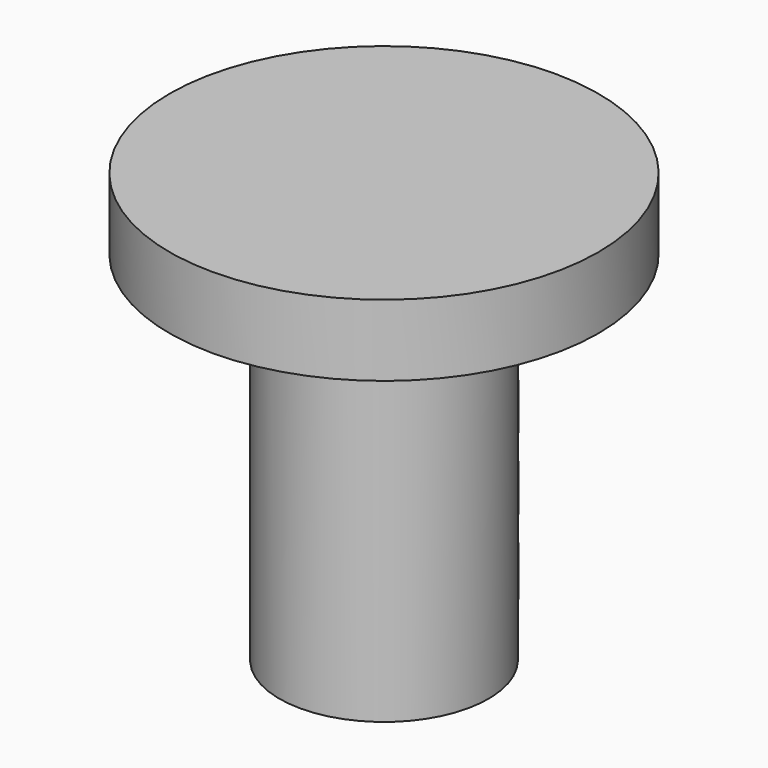
from build123d import *

# Parameters (mm, degrees)
F0_R      = 60
F1_DEPTH  = 20
F2_R      = 29.25
F3_DEPTH  = 100
F4_R      = 25
F5_DEPTH  = 100
F6_W      = 5
F6_H      = 12
F7_DEPTH  = 100
F8_W      = 10
F8_H      = 7
F8_H_2    = 11
F9_DEPTH  = 12
F12_DEPTH = 2


with BuildPart() as f1:
    # F0 (on Top) → F1 (new body)
    with BuildSketch(Plane.XY):
        Circle(F0_R)
    extrude(amount=F1_DEPTH)

    # F2 (on face) → F3 (join)
    with BuildSketch(Plane(origin=(0, 0, 0), x_dir=(1, 0, 0), z_dir=(0, 0, -1))):
        Circle(F2_R)
    extrude(amount=F3_DEPTH)

    # F4 (on face) → F5 (cut)
    with BuildSketch(Plane(origin=(0, 0, -100), x_dir=(1, 0, 0), z_dir=(0, 0, -1))):
        Circle(F4_R)
    extrude(amount=-F5_DEPTH, mode=Mode.SUBTRACT)

    # F6 (on face) → F7 (join)
    with BuildSketch(Plane(origin=(0, 0, 0), x_dir=(1, 0, 0), z_dir=(0, 0, -1))):
        with Locations((-2.5, -34.831881)):
            Rectangle(F6_W, F6_H)
        with Locations((2.5, -34.831881)):
            Rectangle(F6_W, F6_H)
    extrude(amount=F7_DEPTH)

    # F8 (on face) → F9 (cut)
    with BuildSketch(Plane(origin=(0, 40.831881, 0), x_dir=(-1, 0, 0), z_dir=(0, 1, 0))):
        with Locations((0, -82.5)):
            Rectangle(F8_W, F8_H)
        with Locations((0, -62.5)):
            Rectangle(F8_W, F8_H)
        with Locations((0, -42.5)):
            Rectangle(F8_W, F8_H)
        with Locations((0, -22.5)):
            Rectangle(F8_W, F8_H)
        with Locations((0, -5.5)):
            Rectangle(F8_W, F8_H_2)
    extrude(amount=-F9_DEPTH, mode=Mode.SUBTRACT)

    # F11 (on offset) → F12 (cut)
    with BuildSketch(Plane.XZ.offset(-60)):
        Polygon((-8.660254, 17.5), (0, 2.5), (8.660254, 17.5), align=None)
    extrude(amount=F12_DEPTH, mode=Mode.SUBTRACT)


solid = f1.part
